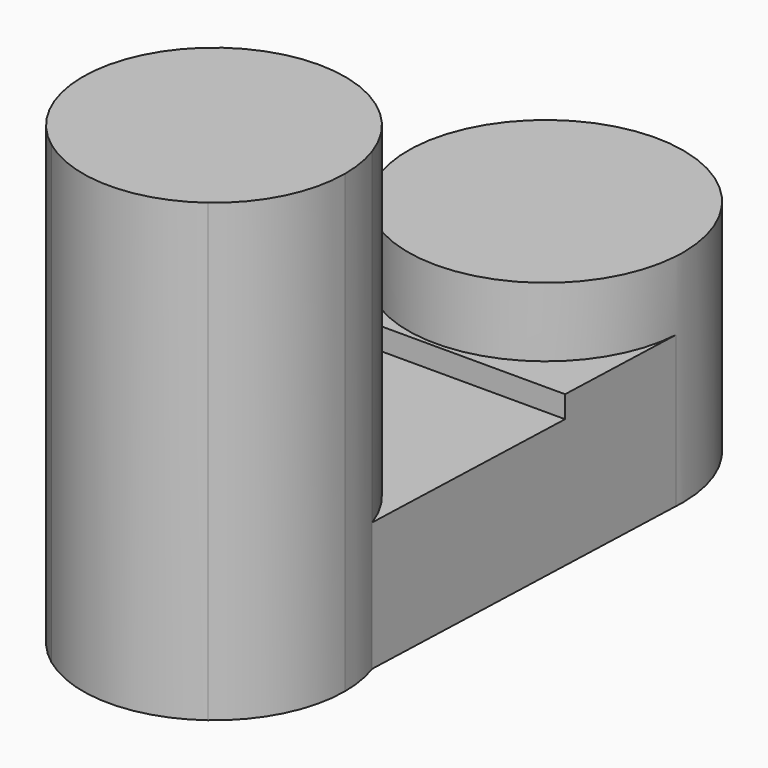
from build123d import *

# Parameters (mm, degrees)
F1_DEPTH = 368.3
F0_W     = 105.1427514449
F0_H     = 53.7366458577
F2_DEPTH = 104.14
F3_DEPTH = 121.92
F4_DEPTH = 177.8


with BuildPart() as f1:
    # F0 (on Top) → F1 (new body)
    with BuildSketch(Plane.XY):
        Polygon((0, -167.1104878187), (-63.1326169969, -252.2933322156), (63.1326169969, -252.2933322156), align=None)
        with BuildLine():
            ThreePointArc((106.0275639087, -167.1104878187), (104.5706585234, -149.5941615946), (100.2399805091, -132.5592126476))
            Line((100.2399805091, -132.5592126476), (0, -132.5592126476))
            Line((0, -132.5592126476), (0, -167.1104878187))
            Line((0, -167.1104878187), (63.1326169969, -252.2933322156))
            ThreePointArc((63.1326169969, -252.2933322156), (94.6985794291, -214.797208848), (106.0275639087, -167.1104878187))
        make_face()
        with BuildLine():
            Line((0, -132.5592126476), (-100.2399805091, -132.5592126476))
            ThreePointArc((-100.2399805091, -132.5592126476), (-101.275447425, -198.4972375273), (-63.1326169969, -252.2933322156))
            Line((-63.1326169969, -252.2933322156), (0, -167.1104878187))
            Line((0, -167.1104878187), (0, -132.5592126476))
        make_face()
        Polygon((0, -61.08292391), (-100.2399805091, -132.5592126476), (0, -132.5592126476), align=None)
        Polygon((0, -132.5592126476), (100.2399805091, -132.5592126476), (0, -61.08292391), align=None)
        with BuildLine():
            Line((63.1326169969, -252.2933322156), (-63.1326169969, -252.2933322156))
            ThreePointArc((-63.1326169969, -252.2933322156), (0, -273.1380517274), (63.1326169969, -252.2933322156))
        make_face()
        with BuildLine():
            ThreePointArc((0, -61.08292391), (-61.5567087005, -80.7819530091), (-100.2399805091, -132.5592126476))
            Line((-100.2399805091, -132.5592126476), (0, -61.08292391))
        make_face()
        with BuildLine():
            Line((0, -61.08292391), (100.2399805091, -132.5592126476))
            ThreePointArc((100.2399805091, -132.5592126476), (61.5567087005, -80.7819530091), (0, -61.08292391))
        make_face()
    extrude(amount=F1_DEPTH)

    # F0 (on Top) → F2 (join)
    with BuildSketch(Plane.XY):
        with BuildLine():
            Line((0, 0), (-105.1427514449, 0))
            Line((-105.1427514449, 0), (-100.2399805091, -132.5592126476))
            ThreePointArc((-100.2399805091, -132.5592126476), (-61.5567087005, -80.7819530091), (0, -61.08292391))
            Line((0, -61.08292391), (0, 0))
        make_face()
        with BuildLine():
            Line((100.2399805091, -132.5592126476), (105.1427514449, 0))
            Line((105.1427514449, 0), (0, 0))
            Line((0, 0), (0, -61.08292391))
            ThreePointArc((0, -61.08292391), (61.5567087005, -80.7819530091), (100.2399805091, -132.5592126476))
        make_face()
        Polygon((105.1427514449, 0), (107.1302290426, 53.7366458577), (0, 53.7366458577), (0, 0), align=None)
        with Locations((-52.5713757225, 26.8683229289)):
            Rectangle(F0_W, F0_H)
    extrude(amount=F2_DEPTH)

    # F0 (on Top) → F3 (join)
    with BuildSketch(Plane.XY):
        with BuildLine():
            Line((0, 53.7366458577), (0, 56.7909614803))
            ThreePointArc((0, 56.7909614803), (-76.0917297258, 86.8530505453), (-111.0901819179, 160.8043106819))
            Line((-111.0901819179, 160.8043106819), (-105.1427514449, 0))
            Line((-105.1427514449, 0), (-105.1427514449, 53.7366458577))
            Line((-105.1427514449, 53.7366458577), (0, 53.7366458577))
        make_face()
        with BuildLine():
            Line((107.1302290426, 53.7366458577), (111.0901819179, 160.8043106819))
            ThreePointArc((111.0901819179, 160.8043106819), (76.0917297258, 86.8530505453), (0, 56.7909614803))
            Line((0, 56.7909614803), (0, 53.7366458577))
            Line((0, 53.7366458577), (107.1302290426, 53.7366458577))
        make_face()
    extrude(amount=F3_DEPTH)

    # F0 (on Top) → F4 (join)
    with BuildSketch(Plane.XY):
        with BuildLine():
            ThreePointArc((0, 56.7909614803), (76.0917297258, 86.8530505453), (111.0901819179, 160.8043106819))
            Line((111.0901819179, 160.8043106819), (0, 56.7909614803))
        make_face()
        Polygon((0, 56.7909614803), (111.0901819179, 160.8043106819), (0, 160.8043106819), align=None)
        with BuildLine():
            ThreePointArc((-111.0901819179, 160.8043106819), (-76.0917297258, 86.8530505453), (0, 56.7909614803))
            Line((0, 56.7909614803), (-111.0901819179, 160.8043106819))
        make_face()
        with BuildLine():
            Line((0, 168.1218892336), (-63.1326169969, 259.8216610192))
            ThreePointArc((-63.1326169969, 259.8216610192), (-100.1973294673, 216.6509593053), (-111.0901819179, 160.8043106819))
            Line((-111.0901819179, 160.8043106819), (0, 160.8043106819))
            Line((0, 160.8043106819), (0, 168.1218892336))
        make_face()
        Polygon((-111.0901819179, 160.8043106819), (0, 56.7909614803), (0, 160.8043106819), align=None)
        with BuildLine():
            Line((-63.1326169969, 259.8216610192), (63.1326169969, 259.8216610192))
            ThreePointArc((63.1326169969, 259.8216610192), (0, 279.4528169869), (-63.1326169969, 259.8216610192))
        make_face()
        with BuildLine():
            ThreePointArc((111.0901819179, 160.8043106819), (111.270725017, 164.4611203793), (111.3309277533, 168.1218892336))
            ThreePointArc((111.3309277533, 168.1218892336), (98.5474208089, 219.9193923233), (63.1326169969, 259.8216610192))
            Line((63.1326169969, 259.8216610192), (0, 168.1218892336))
            Line((0, 168.1218892336), (0, 160.8043106819))
            Line((0, 160.8043106819), (111.0901819179, 160.8043106819))
        make_face()
        Polygon((0, 168.1218892336), (63.1326169969, 259.8216610192), (-63.1326169969, 259.8216610192), align=None)
    extrude(amount=F4_DEPTH)


solid = f1.part
